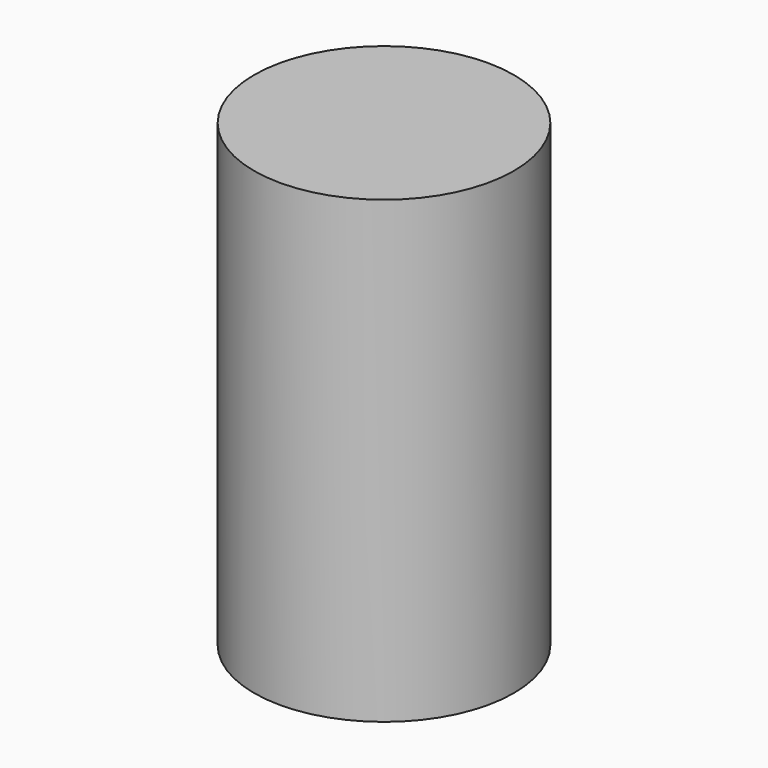
from build123d import *

# Parameters (mm, degrees)
CYLINDER_R        = 32.5
CYLINDER_DEPTH    = 115
CYLINDER001_R     = 2
CYLINDER001_DEPTH = 10


with BuildPart() as cylinder:
    # Cylinder → Cylinder (new body)
    with BuildSketch(Plane.XY):
        Circle(CYLINDER_R)
    extrude(amount=CYLINDER_DEPTH)


with BuildPart() as cylinder001:
    # Cylinder001 → Cylinder001 (new body)
    with BuildSketch(Plane.XY):
        Circle(CYLINDER001_R)
    extrude(amount=CYLINDER001_DEPTH)


solid = Compound([cylinder.part, cylinder001.part])
